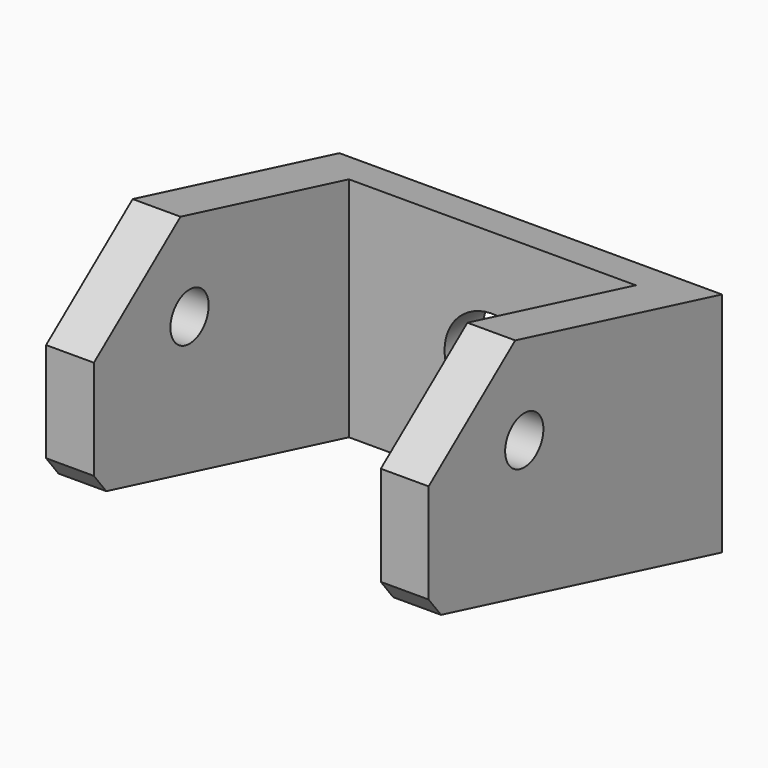
from build123d import *

# Parameters (mm, degrees)
SKETCH_W        = 24
SKETCH_H        = 15
SKETCH_R        = 3
PAD_DEPTH       = 3
SKETCH001_W     = 3
SKETCH001_H     = 20
PAD001_DEPTH    = 20
SKETCH002_R     = 1.5
POCKET_DEPTH    = 24.001
CHAMFER_SIZE    = 7
CHAMFER001_SIZE = 1


with BuildPart() as part:
    # Sketch → Pad (new body)
    with BuildSketch(Plane.XZ):
        with Locations((12, 7.5)):
            Rectangle(SKETCH_W, SKETCH_H)
        with Locations((12, 7.5)):
            Circle(SKETCH_R, mode=Mode.SUBTRACT)
    extrude(amount=PAD_DEPTH)

    # Sketch001 (on Face7 of Pad) → Pad001 (join)
    with BuildSketch(Plane.XZ.offset(3)):
        with Locations((22.5, 10)):
            Rectangle(SKETCH001_W, SKETCH001_H)
        with Locations((1.5, 10)):
            Rectangle(SKETCH001_W, SKETCH001_H)
    extrude(amount=PAD001_DEPTH)

    # Sketch002 (on Face10 of Pad001) → Pocket (cut, through all)
    with BuildSketch(Plane(origin=(24, 0, 0), x_dir=(0, 0, 1), z_dir=(1, 0, 0))):
        with Locations((12.5, 15.5)):
            Circle(SKETCH002_R)
        Polygon((20, 23), (14.25, 0), (20, 0), align=None)
        Polygon((0, 23), (5.75, 23), (0, 0), align=None)
    extrude(amount=-POCKET_DEPTH, mode=Mode.SUBTRACT)

    # Chamfer
    chamfer_edges = [part.edges().sort_by_distance(p)[0] for p in [
        (1.5, -23, 20),
        (22.5, -23, 20),
    ]]
    chamfer(chamfer_edges, length=CHAMFER_SIZE)

    # Chamfer001
    chamfer001_edges = [part.edges().sort_by_distance(p)[0] for p in [
        (22.5, -23, 5.75),
        (1.5, -23, 5.75),
    ]]
    chamfer(chamfer001_edges, length=CHAMFER001_SIZE)


solid = part.part
